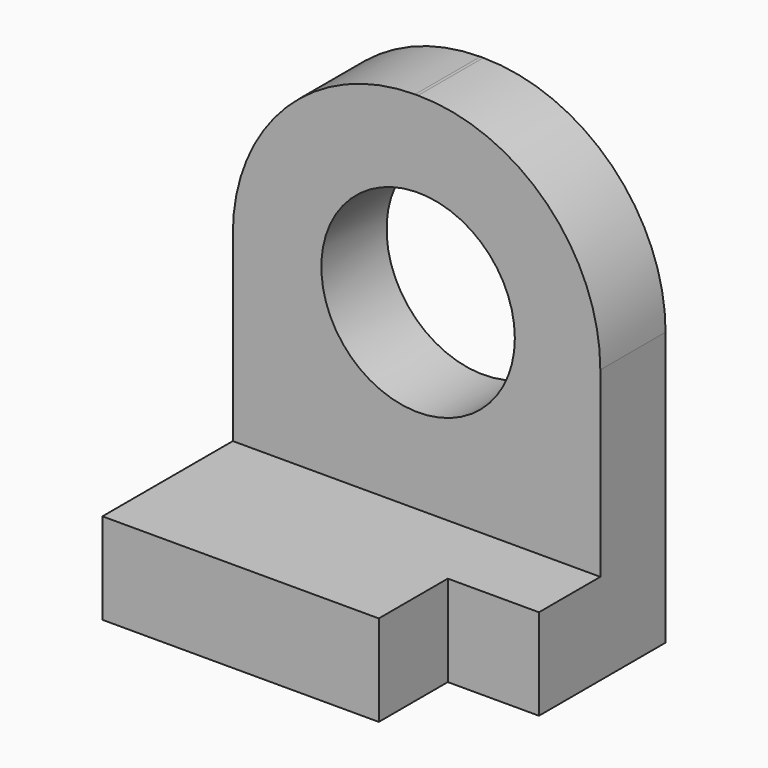
from build123d import *

# Parameters (mm, degrees)
F0_W     = 76.8338
F0_H     = 51.121704
F1_DEPTH = 19.05
F2_W     = 19.054732
F2_H     = 18.031149
F3_DEPTH = 22.606
F4_W     = 76.8338
F4_H     = 17.051882
F5_DEPTH = 76.2
F6_R     = 38.1
F7_R     = 20.228721
F8_DEPTH = 25.4


with BuildPart() as f1:
    # F0 (on Top) → F1 (new body)
    with BuildSketch(Plane.XY):
        Rectangle(F0_W, F0_H)
    extrude(amount=F1_DEPTH)

    # F2 (on face) → F3 (cut)
    with BuildSketch(Plane.XY.offset(19.05)):
        with Locations((28.889534, -16.545278)):
            Rectangle(F2_W, F2_H)
    extrude(amount=-F3_DEPTH, mode=Mode.SUBTRACT)

    # F4 (on face) → F5 (join)
    with BuildSketch(Plane.XY.offset(19.05)):
        with Locations((0, 17.034911)):
            Rectangle(F4_W, F4_H)
    extrude(amount=F5_DEPTH)

    # F6
    f6_edges = [f1.edges().sort_by_distance(p)[0] for p in [
        (-38.4169, 17.034911, 95.25),
        (38.4169, 17.034911, 95.25),
    ]]
    fillet(f6_edges, radius=F6_R)

    # F7 (on face) → F8 (cut)
    with BuildSketch(Plane.XZ.offset(-8.50897)):
        with Locations((0.3169, 57.15)):
            Circle(F7_R)
    extrude(amount=-F8_DEPTH, mode=Mode.SUBTRACT)


solid = f1.part
